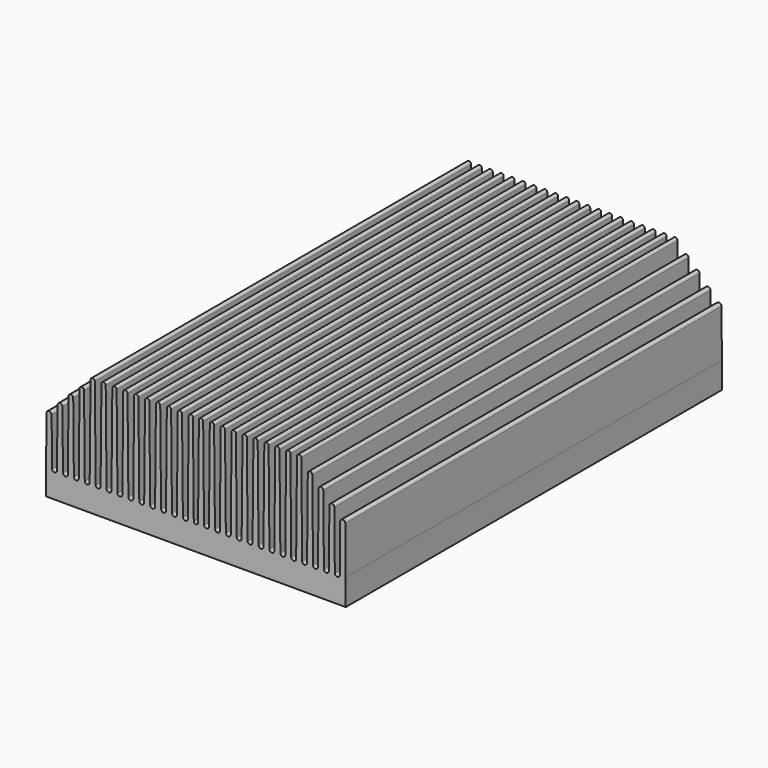
from build123d import *

# Parameters (mm, degrees)
F2_DEPTH = 279.4


with BuildPart() as f2:
    # F1 (on Front) → F2 (new body)
    with BuildSketch(Plane.XZ):
        with BuildLine():
            Line((-0.127, 13.335), (88.9, 13.335))
            Line((88.9, 13.335), (177.927, 13.335))
            Line((177.927, 13.335), (177.927, 13.775847))
            Line((177.927, 13.775847), (177.927, 15.642254))
            Line((177.927, 15.642254), (177.662522, 43.743075))
            ThreePointArc((177.662522, 43.743075), (177.214221, 44.804123), (176.149, 45.242418))
            ThreePointArc((176.149, 45.242418), (175.083779, 44.804123), (174.635478, 43.743075))
            Line((174.635478, 43.743075), (174.371, 15.642254))
            ThreePointArc((174.371, 15.642254), (172.9105, 14.195435), (171.45, 15.642254))
            Line((171.45, 15.642254), (171.12614, 50.052427))
            ThreePointArc((171.12614, 50.052427), (170.695427, 51.071846), (169.672, 51.492945))
            ThreePointArc((169.672, 51.492945), (168.648573, 51.071846), (168.21786, 50.052427))
            Line((168.21786, 50.052427), (167.894, 15.642254))
            ThreePointArc((167.894, 15.642254), (166.4335, 14.195435), (164.973, 15.642254))
            Line((164.973, 15.642254), (164.586194, 56.74034))
            ThreePointArc((164.586194, 56.74034), (164.174126, 57.715632), (163.195, 58.118503))
            ThreePointArc((163.195, 58.118503), (162.215874, 57.715632), (161.803806, 56.74034))
            Line((161.803806, 56.74034), (161.417, 15.642254))
            ThreePointArc((161.417, 15.642254), (159.9565, 14.195435), (158.496, 15.642254))
            Line((158.496, 15.642254), (158.052188, 62.797323))
            ThreePointArc((158.052188, 62.797323), (157.657005, 63.73265), (156.718, 64.119013))
            ThreePointArc((156.718, 64.119013), (155.778995, 63.73265), (155.383812, 62.797323))
            Line((155.383812, 62.797323), (154.94, 15.642254))
            ThreePointArc((154.94, 15.642254), (153.4795, 14.195435), (152.019, 15.642254))
            Line((152.019, 15.642254), (151.511, 69.617254))
            ThreePointArc((151.511, 69.617254), (150.241, 70.887254), (148.971, 69.617254))
            Line((148.971, 69.617254), (148.463, 15.642254))
            ThreePointArc((148.463, 15.642254), (147.0025, 14.195435), (145.542, 15.642254))
            Line((145.542, 15.642254), (145.034, 69.617254))
            ThreePointArc((145.034, 69.617254), (143.764, 70.887254), (142.494, 69.617254))
            Line((142.494, 69.617254), (141.986, 15.642254))
            ThreePointArc((141.986, 15.642254), (140.5255, 14.195435), (139.065, 15.642254))
            Line((139.065, 15.642254), (138.557, 69.617254))
            ThreePointArc((138.557, 69.617254), (137.287, 70.887254), (136.017, 69.617254))
            Line((136.017, 69.617254), (135.509, 15.642254))
            ThreePointArc((135.509, 15.642254), (134.0485, 14.195435), (132.588, 15.642254))
            Line((132.588, 15.642254), (132.08, 69.617254))
            ThreePointArc((132.08, 69.617254), (130.81, 70.887254), (129.54, 69.617254))
            Line((129.54, 69.617254), (129.032, 15.642254))
            ThreePointArc((129.032, 15.642254), (127.5715, 14.195435), (126.111, 15.642254))
            Line((126.111, 15.642254), (125.603, 69.617254))
            ThreePointArc((125.603, 69.617254), (124.333, 70.887254), (123.063, 69.617254))
            Line((123.063, 69.617254), (122.555, 15.642254))
            ThreePointArc((122.555, 15.642254), (121.0945, 14.195435), (119.634, 15.642254))
            Line((119.634, 15.642254), (119.126, 69.617254))
            ThreePointArc((119.126, 69.617254), (117.856, 70.887254), (116.586, 69.617254))
            Line((116.586, 69.617254), (116.078, 15.642254))
            ThreePointArc((116.078, 15.642254), (114.6175, 14.195435), (113.157, 15.642254))
            Line((113.157, 15.642254), (112.649, 69.617254))
            ThreePointArc((112.649, 69.617254), (111.379, 70.887254), (110.109, 69.617254))
            Line((110.109, 69.617254), (109.601, 15.642254))
            ThreePointArc((109.601, 15.642254), (108.1405, 14.195435), (106.68, 15.642254))
            Line((106.68, 15.642254), (106.172, 69.617254))
            ThreePointArc((106.172, 69.617254), (104.902, 70.887254), (103.632, 69.617254))
            Line((103.632, 69.617254), (103.124, 15.642254))
            ThreePointArc((103.124, 15.642254), (101.6635, 14.195435), (100.203, 15.642254))
            Line((100.203, 15.642254), (99.695, 69.617254))
            ThreePointArc((99.695, 69.617254), (98.425, 70.887254), (97.155, 69.617254))
            Line((97.155, 69.617254), (96.647, 15.642254))
            ThreePointArc((96.647, 15.642254), (95.1865, 14.195435), (93.726, 15.642254))
            Line((93.726, 15.642254), (91.948, 15.642254))
            Line((91.948, 15.642254), (90.17, 15.642254))
            ThreePointArc((90.17, 15.642254), (88.9, 14.384151), (87.63, 15.642254))
            Line((87.63, 15.642254), (85.852, 15.642254))
            Line((85.852, 15.642254), (84.074, 15.642254))
            ThreePointArc((84.074, 15.642254), (82.6135, 14.195435), (81.153, 15.642254))
            Line((81.153, 15.642254), (80.645, 69.617254))
            ThreePointArc((80.645, 69.617254), (79.375, 70.887254), (78.105, 69.617254))
            Line((78.105, 69.617254), (77.597, 15.642254))
            ThreePointArc((77.597, 15.642254), (76.1365, 14.195435), (74.676, 15.642254))
            Line((74.676, 15.642254), (74.168, 69.617254))
            ThreePointArc((74.168, 69.617254), (72.898, 70.887254), (71.628, 69.617254))
            Line((71.628, 69.617254), (71.12, 15.642254))
            ThreePointArc((71.12, 15.642254), (69.6595, 14.195435), (68.199, 15.642254))
            Line((68.199, 15.642254), (67.691, 69.617254))
            ThreePointArc((67.691, 69.617254), (66.421, 70.887254), (65.151, 69.617254))
            Line((65.151, 69.617254), (64.643, 15.642254))
            ThreePointArc((64.643, 15.642254), (63.1825, 14.195435), (61.722, 15.642254))
            Line((61.722, 15.642254), (61.214, 69.617254))
            ThreePointArc((61.214, 69.617254), (59.944, 70.887254), (58.674, 69.617254))
            Line((58.674, 69.617254), (58.166, 15.642254))
            ThreePointArc((58.166, 15.642254), (56.7055, 14.195435), (55.245, 15.642254))
            Line((55.245, 15.642254), (54.737, 69.617254))
            ThreePointArc((54.737, 69.617254), (53.467, 70.887254), (52.197, 69.617254))
            Line((52.197, 69.617254), (51.689, 15.642254))
            ThreePointArc((51.689, 15.642254), (50.2285, 14.195435), (48.768, 15.642254))
            Line((48.768, 15.642254), (48.26, 69.617254))
            ThreePointArc((48.26, 69.617254), (46.99, 70.887254), (45.72, 69.617254))
            Line((45.72, 69.617254), (45.212, 15.642254))
            ThreePointArc((45.212, 15.642254), (43.7515, 14.195435), (42.291, 15.642254))
            Line((42.291, 15.642254), (41.783, 69.617254))
            ThreePointArc((41.783, 69.617254), (40.513, 70.887254), (39.243, 69.617254))
            Line((39.243, 69.617254), (38.735, 15.642254))
            ThreePointArc((38.735, 15.642254), (37.2745, 14.195435), (35.814, 15.642254))
            Line((35.814, 15.642254), (35.306, 69.617254))
            ThreePointArc((35.306, 69.617254), (34.036, 70.887254), (32.766, 69.617254))
            Line((32.766, 69.617254), (32.258, 15.642254))
            ThreePointArc((32.258, 15.642254), (30.7975, 14.195435), (29.337, 15.642254))
            Line((29.337, 15.642254), (28.829, 69.617254))
            ThreePointArc((28.829, 69.617254), (27.559, 70.887254), (26.289, 69.617254))
            Line((26.289, 69.617254), (25.781, 15.642254))
            ThreePointArc((25.781, 15.642254), (24.3205, 14.195435), (22.86, 15.642254))
            Line((22.86, 15.642254), (22.416188, 62.797323))
            ThreePointArc((22.416188, 62.797323), (22.021005, 63.73265), (21.082, 64.119013))
            ThreePointArc((21.082, 64.119013), (20.142995, 63.73265), (19.747812, 62.797323))
            Line((19.747812, 62.797323), (19.304, 15.642254))
            ThreePointArc((19.304, 15.642254), (17.8435, 14.195435), (16.383, 15.642254))
            Line((16.383, 15.642254), (15.996194, 56.74034))
            ThreePointArc((15.996194, 56.74034), (15.584126, 57.715632), (14.605, 58.118503))
            ThreePointArc((14.605, 58.118503), (13.625874, 57.715632), (13.213806, 56.74034))
            Line((13.213806, 56.74034), (12.827, 15.642254))
            ThreePointArc((12.827, 15.642254), (11.3665, 14.195435), (9.906, 15.642254))
            Line((9.906, 15.642254), (9.58214, 50.052427))
            ThreePointArc((9.58214, 50.052427), (9.151427, 51.071846), (8.128, 51.492945))
            ThreePointArc((8.128, 51.492945), (7.104573, 51.071846), (6.67386, 50.052427))
            Line((6.67386, 50.052427), (6.35, 15.642254))
            ThreePointArc((6.35, 15.642254), (4.8895, 14.195435), (3.429, 15.642254))
            Line((3.429, 15.642254), (3.164522, 43.743075))
            ThreePointArc((3.164522, 43.743075), (2.716221, 44.804123), (1.651, 45.242418))
            ThreePointArc((1.651, 45.242418), (0.585779, 44.804123), (0.137478, 43.743075))
            Line((0.137478, 43.743075), (-0.127, 15.642254))
            Line((-0.127, 15.642254), (-0.127, 13.775847))
            Line((-0.127, 13.775847), (-0.127, 13.335))
        make_face()
        Polygon((177.927, 13.335), (88.9, 13.335), (88.9, 0), (177.8, 0), (177.927, 0), align=None)
        Polygon((88.9, 0), (88.9, 13.335), (-0.127, 13.335), (-0.127, 0), (0, 0), align=None)
        with BuildLine():
            Line((91.948, 15.642254), (93.726, 15.642254))
            Line((93.726, 15.642254), (93.218, 69.617254))
            ThreePointArc((93.218, 69.617254), (91.948, 70.887254), (90.678, 69.617254))
            Line((90.678, 69.617254), (90.17, 15.642254))
            Line((90.17, 15.642254), (91.948, 15.642254))
        make_face()
        with BuildLine():
            Line((84.582, 69.617254), (84.074, 15.642254))
            Line((84.074, 15.642254), (85.852, 15.642254))
            Line((85.852, 15.642254), (87.63, 15.642254))
            Line((87.63, 15.642254), (87.122, 69.617254))
            ThreePointArc((87.122, 69.617254), (85.852, 70.887254), (84.582, 69.617254))
        make_face()
    extrude(amount=F2_DEPTH)


solid = f2.part
